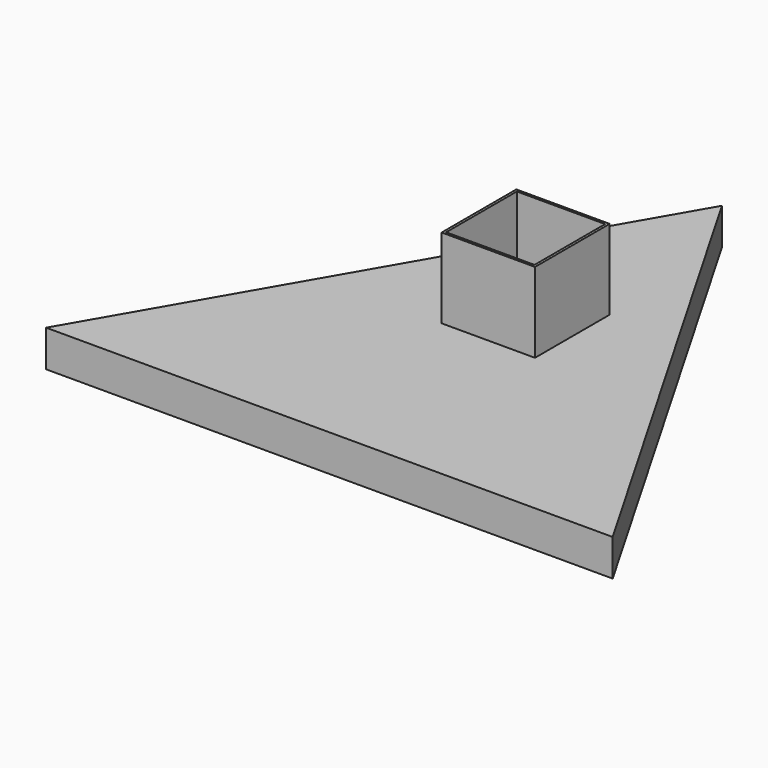
from build123d import *

# Parameters (mm, degrees)
F1_DEPTH = 11
F3_W     = 28
F3_H     = 28
F4_DEPTH = 24
F2_W     = 26.5
F2_H     = 26.5
F5_DEPTH = 24
F6_R     = 2.5
F7_DEPTH = 25


with BuildPart() as f1:
    # F0 (on Top) → F1 (new body)
    with BuildSketch(Plane.XY):
        Polygon((0, 73.612159), (-85, -73.612159), (0, -73.612159), align=None)
        Polygon((0, 73.612159), (0, -73.612159), (85, -73.612159), align=None)
    extrude(amount=F1_DEPTH)

    # F3 (on face) → F4 (join)
    with BuildSketch(Plane.XY.offset(11)):
        Rectangle(F3_W, F3_H)
    extrude(amount=F4_DEPTH)

    # F2 (on face) → F5 (cut)
    with BuildSketch(Plane.XY.offset(11)):
        Rectangle(F2_W, F2_H)
    extrude(amount=F5_DEPTH, mode=Mode.SUBTRACT)

    # F6 (on face) → F7 (cut)
    with BuildSketch(Plane.XY.offset(11)):
        Circle(F6_R)
    extrude(amount=-F7_DEPTH, mode=Mode.SUBTRACT)


solid = f1.part
